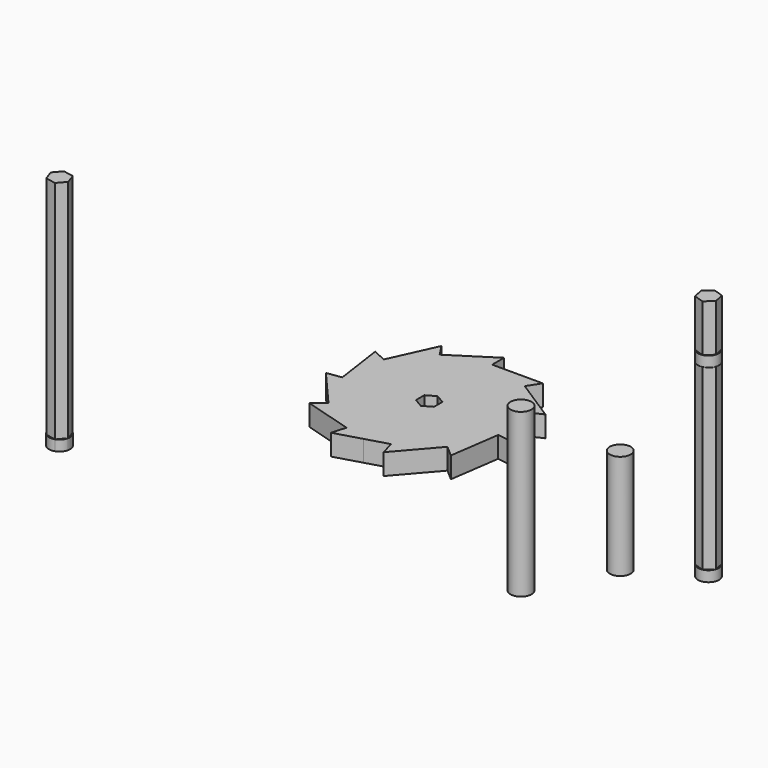
from build123d import *

# Parameters (mm, degrees)
F1_DEPTH  = 4
F2_R      = 2
F3_DEPTH  = 31
F4_DEPTH  = 20
F5_DEPTH  = 45
F7_DEPTH  = 9
F9_DEPTH  = 34
F10_DEPTH = 2
F12_DEPTH = 43
F13_DEPTH = 2


with BuildPart() as f1:
    # F0 (on Top) → F1 (new body)
    with BuildSketch(Plane.XY):
        with BuildLine():
            Line((2, 0), (15, 0))
            ThreePointArc((15, 0), (14.6572206773, 3.1883980329), (13.6445490645, 6.23107381))
            ThreePointArc((13.6445490645, 6.23107381), (13.6445144976, 6.2311495026), (13.6444799303, 6.231225195))
            ThreePointArc((13.6444799303, 6.231225195), (11.3362981074, 9.8228481216), (8.1097522661, 12.6187130161))
            ThreePointArc((8.1097522661, 12.6187130161), (8.1096822641, 12.6187580045), (8.1096122618, 12.6188029925))
            ThreePointArc((8.1096122618, 12.6188029925), (4.2260681939, 14.3923711605), (0.000166424, 14.9999999991))
            ThreePointArc((0.000166424, 14.9999999991), (8.3212e-05, 14.9999999998), (0, 15))
            Line((0, 15), (0, 2))
            ThreePointArc((0, 2), (1, 1.7320508076), (1.7320508076, 1))
            ThreePointArc((1.7320508076, 1), (1.9318516526, 0.5176380902), (2, 0))
        make_face()
        with BuildLine():
            Line((16.4904911563, 0), (15, 0))
            ThreePointArc((15, 0), (14.9617817192, -1.070087748), (14.8473216282, -2.1347225741))
            Line((14.8473216282, -2.1347225741), (17.6495061302, -2.5376158813))
            Line((17.6495061302, -2.5376158813), (16.4904911563, 0))
        make_face()
        with BuildLine():
            ThreePointArc((14.8473216282, -2.1347225741), (14.9617817192, -1.070087748), (15, 0))
            Line((15, 0), (2, 0))
            ThreePointArc((2, 0), (1.9318516526, -0.5176380902), (1.7320508076, -1))
            ThreePointArc((1.7320508076, -1), (1, -1.7320508076), (0, -2))
            Line((0, -2), (0, -15))
            ThreePointArc((0, -15), (2.134640209, -14.8473334703), (4.2258286697, -14.3924414904))
            ThreePointArc((4.2258286697, -14.3924414904), (4.2259085112, -14.3924180475), (4.2259883526, -14.3923946042))
            ThreePointArc((4.2259883526, -14.3923946042), (8.1095422593, -12.6188479801), (11.3361346301, -9.8230367834))
            ThreePointArc((11.3361346301, -9.8230367834), (11.3361891229, -9.8229738965), (11.3362436153, -9.8229110092))
            ThreePointArc((11.3362436153, -9.8229110092), (13.6444453626, -6.2313008872), (14.8472979427, -2.134887304))
            ThreePointArc((14.8472979427, -2.134887304), (14.8473097857, -2.1348049391), (14.8473216282, -2.1347225741))
        make_face()
        with BuildLine():
            ThreePointArc((13.6445490645, 6.23107381), (14.6572206773, 3.1883980329), (15, 0))
            Line((15, 0), (16.4904911563, 0))
            Line((16.4904911563, 0), (13.6445490645, 6.23107381))
        make_face()
        with BuildLine():
            ThreePointArc((8.1097522661, 12.6187130161), (11.3362981074, 9.8228481216), (13.6444799303, 6.231225195))
            Line((13.6444799303, 6.231225195), (16.2196481092, 7.4072650968))
            Line((16.2196481092, 7.4072650968), (8.1097522661, 12.6187130161))
        make_face()
        with BuildLine():
            Line((13.4757706603, -11.676821747), (14.8472979427, -2.134887304))
            ThreePointArc((14.8472979427, -2.134887304), (13.6444453626, -6.2313008872), (11.3362436153, -9.8229110092))
            Line((11.3362436153, -9.8229110092), (13.4757706603, -11.676821747))
        make_face()
        with BuildLine():
            ThreePointArc((-1.7320508076, 1), (-1, 1.7320508076), (0, 2))
            Line((0, 2), (0, 15))
            ThreePointArc((0, 15), (-4.2259085112, 14.3924180475), (-8.1094722565, 12.6188929673))
            ThreePointArc((-8.1094722565, 12.6188929673), (-8.1095422593, 12.6188479801), (-8.1096122618, 12.6188029925))
            ThreePointArc((-8.1096122618, 12.6188029925), (-11.3361891229, 9.8229738965), (-13.6444107944, 6.2313765792))
            ThreePointArc((-13.6444107944, 6.2313765792), (-13.6444453626, 6.2313008872), (-13.6444799303, 6.231225195))
            ThreePointArc((-13.6444799303, 6.231225195), (-14.6572029896, 3.1884793433), (-15, 0))
            Line((-15, 0), (-2, 0))
            ThreePointArc((-2, 0), (-1.9318516526, 0.5176380902), (-1.7320508076, 1))
        make_face()
        with BuildLine():
            Line((0, -15), (0, -2))
            ThreePointArc((0, -2), (-1, -1.7320508076), (-1.7320508076, -1))
            ThreePointArc((-1.7320508076, -1), (-1.9318516526, -0.5176380902), (-2, 0))
            Line((-2, 0), (-15, 0))
            ThreePointArc((-15, 0), (-14.9617876552, -1.070004748), (-14.8473453119, -2.1345578439))
            ThreePointArc((-14.8473453119, -2.1345578439), (-14.8473334703, -2.134640209), (-14.8473216282, -2.1347225741))
            ThreePointArc((-14.8473216282, -2.1347225741), (-13.6445144976, -6.2311495026), (-11.3363525992, -9.8227852337))
            ThreePointArc((-11.3363525992, -9.8227852337), (-11.3362981074, -9.8228481216), (-11.3362436153, -9.8229110092))
            ThreePointArc((-11.3362436153, -9.8229110092), (-8.1096822641, -12.6187580045), (-4.226148035, -14.3923477163))
            ThreePointArc((-4.226148035, -14.3923477163), (-4.2260681939, -14.3923711605), (-4.2259883526, -14.3923946042))
            ThreePointArc((-4.2259883526, -14.3923946042), (-2.1347225741, -14.8473216282), (0, -15))
        make_face()
        with BuildLine():
            ThreePointArc((0.000166424, 14.9999999991), (4.2260681939, 14.3923711605), (8.1096122618, 12.6188029925))
            Line((8.1096122618, 12.6188029925), (9.6401664161, 15.0003917439))
            Line((9.6401664161, 15.0003917439), (0.000166424, 14.9999999991))
        make_face()
        with BuildLine():
            Line((5.023573221, -17.1087192125), (11.3361346301, -9.8230367834))
            ThreePointArc((11.3361346301, -9.8230367834), (8.1095422593, -12.6188479801), (4.2259883526, -14.3923946042))
            Line((4.2259883526, -14.3923946042), (5.023573221, -17.1087192125))
        make_face()
        with BuildLine():
            ThreePointArc((-8.1094722565, 12.6188929673), (-4.2259085112, 14.3924180475), (0, 15))
            Line((0, 15), (0, 17.831))
            Line((0, 17.831), (-8.1094722565, 12.6188929673))
        make_face()
        with BuildLine():
            Line((0, -15.6334432772), (0, -15))
            ThreePointArc((0, -15), (-2.1347225741, -14.8473216282), (-4.2259883526, -14.3923946042))
            Line((-4.2259883526, -14.3923946042), (-5.023573221, -17.1087192125))
            Line((-5.023573221, -17.1087192125), (0, -15.6334432772))
        make_face()
        with BuildLine():
            ThreePointArc((4.2258286697, -14.3924414904), (2.134640209, -14.8473334703), (0, -15))
            Line((0, -15), (0, -15.6334432772))
            Line((0, -15.6334432772), (4.2258286697, -14.3924414904))
        make_face()
        with BuildLine():
            Line((-15.1543369338, 0), (-15, 0))
            ThreePointArc((-15, 0), (-14.6572029896, 3.1884793433), (-13.6444799303, 6.231225195))
            Line((-13.6444799303, 6.231225195), (-16.2196481092, 7.4072650968))
            Line((-16.2196481092, 7.4072650968), (-15.1543369338, 0))
        make_face()
        with BuildLine():
            ThreePointArc((-14.8473453119, -2.1345578439), (-14.9617876552, -1.070004748), (-15, 0))
            Line((-15, 0), (-15.1543369338, 0))
            Line((-15.1543369338, 0), (-14.8473453119, -2.1345578439))
        make_face()
        with BuildLine():
            ThreePointArc((-13.6444107944, 6.2313765792), (-11.3361891229, 9.8229738965), (-8.1096122618, 12.6188029925))
            Line((-8.1096122618, 12.6188029925), (-9.6401664161, 15.0003917439))
            Line((-9.6401664161, 15.0003917439), (-13.6444107944, 6.2313765792))
        make_face()
        with BuildLine():
            Line((-13.4757706603, -11.676821747), (-4.226148035, -14.3923477163))
            ThreePointArc((-4.226148035, -14.3923477163), (-8.1096822641, -12.6187580045), (-11.3362436153, -9.8229110092))
            Line((-11.3362436153, -9.8229110092), (-13.4757706603, -11.676821747))
        make_face()
        with BuildLine():
            ThreePointArc((-11.3363525992, -9.8227852337), (-13.6445144976, -6.2311495026), (-14.8473216282, -2.1347225741))
            Line((-14.8473216282, -2.1347225741), (-17.6495061302, -2.5376158813))
            Line((-17.6495061302, -2.5376158813), (-11.3363525992, -9.8227852337))
        make_face()
        with BuildLine():
            Line((-1.7320508076, 1), (0, 2))
            ThreePointArc((0, 2), (-1, 1.7320508076), (-1.7320508076, 1))
        make_face()
        with BuildLine():
            Line((0, 2), (1.7320508076, 1))
            ThreePointArc((1.7320508076, 1), (1, 1.7320508076), (0, 2))
        make_face()
        with BuildLine():
            Line((1.7320508076, 0), (2, 0))
            ThreePointArc((2, 0), (1.9318516526, 0.5176380902), (1.7320508076, 1))
            Line((1.7320508076, 1), (1.7320508076, 0))
        make_face()
        with BuildLine():
            ThreePointArc((0, -2), (1, -1.7320508076), (1.7320508076, -1))
            Line((1.7320508076, -1), (0, -2))
        make_face()
        with BuildLine():
            ThreePointArc((-1.7320508076, -1), (-1, -1.7320508076), (0, -2))
            Line((0, -2), (-1.7320508076, -1))
        make_face()
        with BuildLine():
            Line((-2, 0), (-1.7320508076, 0))
            Line((-1.7320508076, 0), (-1.7320508076, 1))
            ThreePointArc((-1.7320508076, 1), (-1.9318516526, 0.5176380902), (-2, 0))
        make_face()
        with BuildLine():
            Line((-1.7320508076, -1), (-1.7320508076, 0))
            Line((-1.7320508076, 0), (-2, 0))
            ThreePointArc((-2, 0), (-1.9318516526, -0.5176380902), (-1.7320508076, -1))
        make_face()
        with BuildLine():
            ThreePointArc((1.7320508076, -1), (1.9318516526, -0.5176380902), (2, 0))
            Line((2, 0), (1.7320508076, 0))
            Line((1.7320508076, 0), (1.7320508076, -1))
        make_face()
    extrude(amount=F1_DEPTH)


with BuildPart() as f3:
    # F2 (on Top) → F3 (new body)
    with BuildSketch(Plane.XY):
        with Locations((44.00838539, -33.1451781094)):
            Circle(F2_R)
    extrude(amount=F3_DEPTH)


with BuildPart() as f4:
    # F2 (on Top) → F4 (new body)
    with BuildSketch(Plane.XY):
        with Locations((51.3772554696, -18.7238864601)):
            Circle(F2_R)
    extrude(amount=F4_DEPTH)


with BuildPart() as f5:
    # F2 (on Top) → F5 (new body)
    with BuildSketch(Plane.XY):
        with Locations((60.476962477, -9.0853888541)):
            Circle(F2_R)
    extrude(amount=F5_DEPTH)

    # F6 (on face) → F7 (cut)
    with BuildSketch(Plane.XY.offset(45)):
        with BuildLine():
            Line((58.5778070493, -8.4583253314), (60.0704377037, -7.1271402467))
            ThreePointArc((60.0704377037, -7.1271402467), (59.1457773923, -7.5927581998), (58.5778070493, -8.4583253314))
        make_face()
        with BuildLine():
            ThreePointArc((61.9695931313, -7.7542037695), (61.1040259997, -7.1862334265), (60.0704377037, -7.1271402467))
            Line((60.0704377037, -7.1271402467), (61.9695931313, -7.7542037695))
        make_face()
        with BuildLine():
            ThreePointArc((62.476962477, -9.0853888541), (62.3458205921, -8.373090219), (61.9695931313, -7.7542037695))
            Line((61.9695931313, -7.7542037695), (62.3761179046, -9.7124523769))
            ThreePointArc((62.3761179046, -9.7124523769), (62.4515903983, -9.4029491986), (62.476962477, -9.0853888541))
        make_face()
        with BuildLine():
            ThreePointArc((60.8834872503, -11.0436374616), (61.8081475617, -10.5780195085), (62.3761179046, -9.7124523769))
            Line((62.3761179046, -9.7124523769), (60.8834872503, -11.0436374616))
        make_face()
        with BuildLine():
            Line((60.8834872503, -11.0436374616), (58.9843318226, -10.4165739388))
            ThreePointArc((58.9843318226, -10.4165739388), (59.8498989542, -10.9845442818), (60.8834872503, -11.0436374616))
        make_face()
        with BuildLine():
            Line((58.9843318226, -10.4165739388), (58.5778070493, -8.4583253314))
            ThreePointArc((58.5778070493, -8.4583253314), (58.5187138695, -9.4919136275), (58.9843318226, -10.4165739388))
        make_face()
    extrude(amount=-F7_DEPTH, mode=Mode.SUBTRACT)

    # F8 (on face) → F9 (cut)
    with BuildSketch(Plane.XY):
        with BuildLine():
            ThreePointArc((60.8834872503, -11.0436374616), (61.8081475617, -10.5780195085), (62.3761179046, -9.7124523769))
            Line((62.3761179046, -9.7124523769), (60.8834872503, -11.0436374616))
        make_face()
        with BuildLine():
            ThreePointArc((62.476962477, -9.0853888541), (62.3458205921, -8.373090219), (61.9695931313, -7.7542037695))
            Line((61.9695931313, -7.7542037695), (62.3761179046, -9.7124523769))
            ThreePointArc((62.3761179046, -9.7124523769), (62.4515903983, -9.4029491986), (62.476962477, -9.0853888541))
        make_face()
        with BuildLine():
            Line((60.0704377037, -7.1271402467), (61.9695931313, -7.7542037695))
            ThreePointArc((61.9695931313, -7.7542037695), (61.1040259997, -7.1862334265), (60.0704377037, -7.1271402467))
        make_face()
        with BuildLine():
            Line((58.5778070493, -8.4583253314), (60.0704377037, -7.1271402467))
            ThreePointArc((60.0704377037, -7.1271402467), (59.1457773923, -7.5927581998), (58.5778070493, -8.4583253314))
        make_face()
        with BuildLine():
            Line((58.9843318226, -10.4165739388), (58.5778070493, -8.4583253314))
            ThreePointArc((58.5778070493, -8.4583253314), (58.5187138695, -9.4919136275), (58.9843318226, -10.4165739388))
        make_face()
        with BuildLine():
            ThreePointArc((58.9843318226, -10.4165739388), (59.8498989542, -10.9845442818), (60.8834872503, -11.0436374616))
            Line((60.8834872503, -11.0436374616), (58.9843318226, -10.4165739388))
        make_face()
    extrude(amount=F9_DEPTH, mode=Mode.SUBTRACT)

    # F2 (on Top) → F10 (join)
    with BuildSketch(Plane.XY):
        with Locations((60.476962477, -9.0853888541)):
            Circle(F2_R)
    extrude(amount=-F10_DEPTH)


with BuildPart() as f12:
    # F11 (on Top) → F12 (new body)
    with BuildSketch(Plane.XY):
        Polygon((-39.2364967106, -36.9146788402), (-39.8903380677, -35.0245752769), (-41.8541364478, -34.6457667206), (-43.1640934708, -36.1570617275), (-42.5102521137, -38.0471652907), (-40.5464537336, -38.4259738471), align=None)
    extrude(amount=F12_DEPTH)

    # F11 (on Top) → F13 (join)
    with BuildSketch(Plane.XY):
        with BuildLine():
            ThreePointArc((-39.2364967106, -36.9146788402), (-39.2093660663, -36.7261375167), (-39.2002950907, -36.5358702838))
            ThreePointArc((-39.2002950907, -36.5358702838), (-39.380966362, -35.7051820288), (-39.8903380677, -35.0245752769))
            Line((-39.8903380677, -35.0245752769), (-39.2364967106, -36.9146788402))
        make_face()
        with BuildLine():
            Line((-41.8541364478, -34.6457667206), (-39.8903380677, -35.0245752769))
            ThreePointArc((-39.8903380677, -35.0245752769), (-40.8214865343, -34.5720719038), (-41.8541364478, -34.6457667206))
        make_face()
        Polygon((-39.2364967106, -36.9146788402), (-39.8903380677, -35.0245752769), (-41.8541364478, -34.6457667206), (-43.1640934708, -36.1570617275), (-42.5102521137, -38.0471652907), (-40.5464537336, -38.4259738471), align=None)
        with BuildLine():
            ThreePointArc((-40.5464537336, -38.4259738471), (-39.6890000838, -37.8458273069), (-39.2364967106, -36.9146788402))
            Line((-39.2364967106, -36.9146788402), (-40.5464537336, -38.4259738471))
        make_face()
        with BuildLine():
            Line((-43.1640934708, -36.1570617275), (-41.8541364478, -34.6457667206))
            ThreePointArc((-41.8541364478, -34.6457667206), (-42.7115900976, -35.2259132608), (-43.1640934708, -36.1570617275))
        make_face()
        with BuildLine():
            ThreePointArc((-42.5102521137, -38.0471652907), (-41.579103647, -38.4996686639), (-40.5464537336, -38.4259738471))
            Line((-40.5464537336, -38.4259738471), (-42.5102521137, -38.0471652907))
        make_face()
        with BuildLine():
            Line((-42.5102521137, -38.0471652907), (-43.1640934708, -36.1570617275))
            ThreePointArc((-43.1640934708, -36.1570617275), (-43.0903986539, -37.1897116409), (-42.5102521137, -38.0471652907))
        make_face()
    extrude(amount=-F13_DEPTH)


solid = Compound([f1.part, f3.part, f4.part, f5.part, f12.part])
